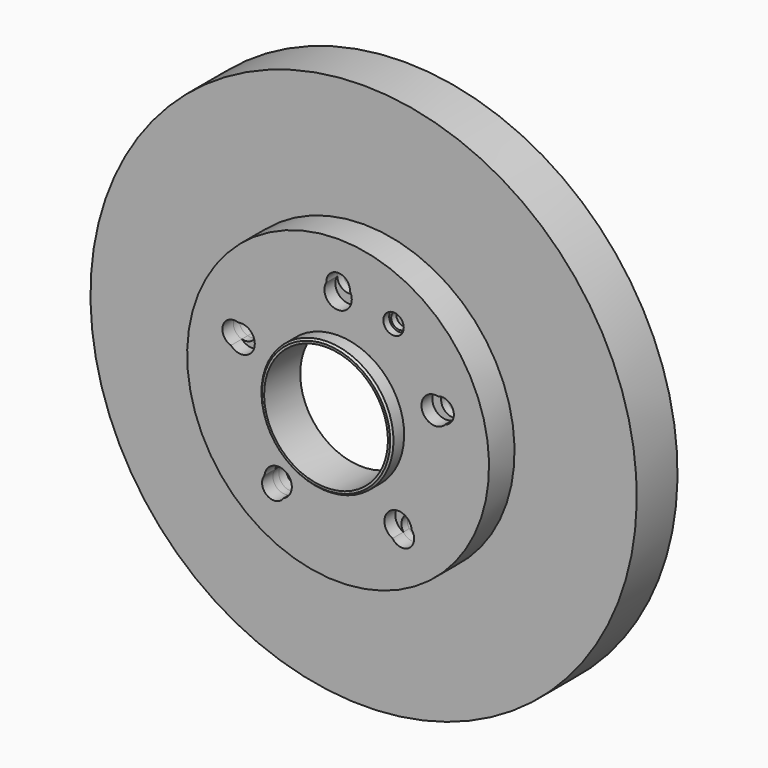
from build123d import *

# Parameters (mm, degrees)
F1_W     = 28
F1_H     = 67.1029478312
F5_DEPTH = 25
F0_R     = 4.5
F6_DEPTH = 25
F7_R     = 5.6
F8_DEPTH = 4


with BuildPart() as f2:
    # F1 (on Right) → F2 (revolve)
    with BuildSketch(Plane.YZ):
        with BuildLine():
            Line((-15.8, 34), (9, 34))
            Line((9, 34), (9, 75))
            Line((9, 75), (4, 75))
            Line((4, 75), (4, 39.5))
            Line((4, 39.5), (4, 39.485))
            Line((4, 39.485), (-2.7, 39.485))
            Line((-2.7, 39.485), (-2.7, 37.75))
            ThreePointArc((-2.7, 37.75), (-3.1393398282, 36.6893398282), (-4.2, 36.25))
            Line((-4.2, 36.25), (-14.8, 36.25))
            Line((-14.8, 36.25), (-15.8, 35.25))
            Line((-15.8, 35.25), (-15.8, 34))
        make_face()
    revolve(axis=Axis((0, -36.444887502, 0), (0, -1, 0)))


with BuildPart() as f3:
    # F1 (on Right) → F3 (revolve)
    with BuildSketch(Plane.YZ):
        Polygon((4, 39.5), (4, 75), (0, 75), (0, 42.775), (0, 39.5), align=None)
    revolve(axis=Axis((0, -36.444887502, 0), (0, -1, 0)))


with BuildPart() as f4:
    # F1 (on Right) → F4 (revolve)
    with BuildSketch(Plane.YZ):
        with BuildLine():
            Line((0, 42.775), (0, 75))
            Line((0, 75), (0, 76.5613988042))
            Line((0, 76.5613988042), (38, 76.5613988042))
            Line((38, 76.5613988042), (38, 82.8970521688))
            Line((38, 82.8970521688), (10, 82.8970521688))
            Line((10, 82.8970521688), (-7.5, 82.8970521688))
            Line((-7.5, 82.8970521688), (-7.5, 36.275))
            Line((-7.5, 36.275), (-4.5, 36.275))
            Line((-4.5, 36.275), (-4.5, 38.5))
            ThreePointArc((-4.5, 38.5), (-4.2071067812, 39.2071067812), (-3.5, 39.5))
            Line((-3.5, 39.5), (0, 39.5))
            Line((0, 39.5), (0, 42.775))
        make_face()
        with Locations((24, 116.4485260844)):
            Rectangle(F1_W, F1_H)
    revolve(axis=Axis((0, -36.444887502, 0), (0, -1, 0)))

    # F0 (on Front) → F6 (cut)
    with BuildSketch(Plane.XZ):
        with BuildLine():
            ThreePointArc((-6.4951905284, 59.75), (-1.9411428383, 48.7555563028), (7.5, 56))
            ThreePointArc((7.5, 56), (7.2444436972, 57.9411428383), (6.4951905284, 59.75))
            ThreePointArc((6.4951905284, 59.75), (0, 53.5), (-6.4951905284, 59.75))
        make_face()
        with BuildLine():
            ThreePointArc((-6.4951905284, 59.75), (0, 53.5), (6.4951905284, 59.75))
            ThreePointArc((6.4951905284, 59.75), (0, 63.5), (-6.4951905284, 59.75))
        make_face()
        with BuildLine():
            ThreePointArc((-6.4951905284, 59.75), (0, 63.5), (6.4951905284, 59.75))
            ThreePointArc((6.4951905284, 59.75), (6.4987975209, 59.8749768711), (6.5, 60))
            ThreePointArc((6.5, 60), (-0.1250231289, 66.4987975209), (-6.4951905284, 59.75))
        make_face()
        with BuildLine():
            ThreePointArc((-58.8327511036, 12.2864721373), (-50.5714052909, 10.3030984863), (-45.7591649125, 17.304951685))
            ThreePointArc((-45.7591649125, 17.304951685), (-48.5392619797, 23.1335463959), (-54.8185025937, 24.6410586905))
            ThreePointArc((-54.8185025937, 24.6410586905), (-51.732266589, 22.2597711669), (-50.5633909777, 18.5410196625))
            ThreePointArc((-50.5633909777, 18.5410196625), (-53.1423478014, 13.3568687765), (-58.8327511036, 12.2864721373))
        make_face()
        with BuildLine():
            ThreePointArc((-50.5633909777, 18.5410196625), (-51.732266589, 22.2597711669), (-54.8185025937, 24.6410586905))
            ThreePointArc((-54.8185025937, 24.6410586905), (-60.3920887847, 19.6225791428), (-58.8327511036, 12.2864721373))
            ThreePointArc((-58.8327511036, 12.2864721373), (-53.1423478014, 13.3568687765), (-50.5633909777, 18.5410196625))
        make_face()
        with BuildLine():
            ThreePointArc((-58.8327511036, 12.2864721373), (-60.3920887847, 19.6225791428), (-54.8185025937, 24.6410586905))
            ThreePointArc((-54.8185025937, 24.6410586905), (-63.2452583336, 20.5496301259), (-58.8327511036, 12.2864721373))
        make_face()
        with BuildLine():
            ThreePointArc((-29.8654493053, -52.1565426173), (-26.6259448688, -49.3897444476), (-25.4159741284, -45.304951685))
            ThreePointArc((-25.4159741284, -45.304951685), (-32.5234544566, -37.8152301743), (-40.3748883436, -44.5209882105))
            ThreePointArc((-40.3748883436, -44.5209882105), (-33.1399721992, -42.3989302037), (-28.7671151375, -48.5410196625))
            ThreePointArc((-28.7671151375, -48.5410196625), (-29.0477571357, -50.430354478), (-29.8654493053, -52.1565426173))
        make_face()
        with BuildLine():
            ThreePointArc((-28.7671151375, -48.5410196625), (-33.1399721992, -42.3989302037), (-40.3748883436, -44.5209882105))
            ThreePointArc((-40.3748883436, -44.5209882105), (-37.3243635206, -51.3725791428), (-29.8654493053, -52.1565426173))
            ThreePointArc((-29.8654493053, -52.1565426173), (-29.0477571357, -50.430354478), (-28.7671151375, -48.5410196625))
        make_face()
        with BuildLine():
            ThreePointArc((-29.8654493053, -52.1565426173), (-37.3243635206, -51.3725791428), (-40.3748883436, -44.5209882105))
            ThreePointArc((-40.3748883436, -44.5209882105), (-39.0877192774, -53.7996301259), (-29.8654493053, -52.1565426173))
        make_face()
        with BuildLine():
            ThreePointArc((29.8654493053, -52.1565426173), (37.000766891, -51.5949809446), (40.4159741284, -45.304951685))
            ThreePointArc((40.4159741284, -45.304951685), (40.405695639, -44.9124320132), (40.3748883436, -44.5209882105))
            ThreePointArc((40.3748883436, -44.5209882105), (31.4465109976, -43.2824091991), (29.8654493053, -52.1565426173))
        make_face()
        with BuildLine():
            ThreePointArc((40.3748883436, -44.5209882105), (40.405695639, -44.9124320132), (40.4159741284, -45.304951685))
            ThreePointArc((40.4159741284, -45.304951685), (37.000766891, -51.5949809446), (29.8654493053, -52.1565426173))
            ThreePointArc((29.8654493053, -52.1565426173), (37.1564499531, -54.7603776643), (41.7671151375, -48.5410196625))
            ThreePointArc((41.7671151375, -48.5410196625), (41.4092045963, -46.4138767241), (40.3748883436, -44.5209882105))
        make_face()
        with BuildLine():
            ThreePointArc((29.8654493053, -52.1565426173), (31.4465109976, -43.2824091991), (40.3748883436, -44.5209882105))
            ThreePointArc((40.3748883436, -44.5209882105), (28.5075847362, -39.2373242272), (29.8654493053, -52.1565426173))
        make_face()
        with BuildLine():
            ThreePointArc((58.8327511036, 12.2864721373), (60.2610181113, 14.6171920634), (60.7591649125, 17.304951685))
            ThreePointArc((60.7591649125, 17.304951685), (59.0877596235, 22.0248546179), (54.8185025937, 24.6410586905))
            ThreePointArc((54.8185025937, 24.6410586905), (50.8815236218, 16.5324091991), (58.8327511036, 12.2864721373))
        make_face()
        with BuildLine():
            ThreePointArc((54.8185025937, 24.6410586905), (59.0877596235, 22.0248546179), (60.7591649125, 17.304951685))
            ThreePointArc((60.7591649125, 17.304951685), (60.2610181113, 14.6171920634), (58.8327511036, 12.2864721373))
            ThreePointArc((58.8327511036, 12.2864721373), (62.2475418637, 14.6199764861), (63.5633909777, 18.5410196625))
            ThreePointArc((63.5633909777, 18.5410196625), (60.7821424822, 23.8721440512), (54.8185025937, 24.6410586905))
        make_face()
        with BuildLine():
            ThreePointArc((58.8327511036, 12.2864721373), (50.8815236218, 16.5324091991), (54.8185025937, 24.6410586905))
            ThreePointArc((54.8185025937, 24.6410586905), (46.1262410403, 14.9873242272), (58.8327511036, 12.2864721373))
        make_face()
        with Locations((30.4523017776, 51.6977496265)):
            Circle(F0_R)
    extrude(amount=F6_DEPTH, mode=Mode.SUBTRACT)

    # F7 (on face) → F8 (cut)
    with BuildSketch(Plane.XZ.offset(7.5)):
        with Locations((30.4523017776, 51.6977496265)):
            Circle(F7_R)
    extrude(amount=-F8_DEPTH, mode=Mode.SUBTRACT)


with BuildPart() as f5_tool:
    # F0 (on Front) → F5 (new body)
    with BuildSketch(Plane.XZ):
        with BuildLine():
            ThreePointArc((54.8185025937, 24.6410586905), (59.0877596235, 22.0248546179), (60.7591649125, 17.304951685))
            ThreePointArc((60.7591649125, 17.304951685), (60.2610181113, 14.6171920634), (58.8327511036, 12.2864721373))
            ThreePointArc((58.8327511036, 12.2864721373), (62.2475418637, 14.6199764861), (63.5633909777, 18.5410196625))
            ThreePointArc((63.5633909777, 18.5410196625), (60.7821424822, 23.8721440512), (54.8185025937, 24.6410586905))
        make_face()
        with BuildLine():
            ThreePointArc((58.8327511036, 12.2864721373), (60.2610181113, 14.6171920634), (60.7591649125, 17.304951685))
            ThreePointArc((60.7591649125, 17.304951685), (59.0877596235, 22.0248546179), (54.8185025937, 24.6410586905))
            ThreePointArc((54.8185025937, 24.6410586905), (50.8815236218, 16.5324091991), (58.8327511036, 12.2864721373))
        make_face()
        with BuildLine():
            ThreePointArc((-6.4951905284, 59.75), (0, 63.5), (6.4951905284, 59.75))
            ThreePointArc((6.4951905284, 59.75), (6.4987975209, 59.8749768711), (6.5, 60))
            ThreePointArc((6.5, 60), (-0.1250231289, 66.4987975209), (-6.4951905284, 59.75))
        make_face()
        with BuildLine():
            ThreePointArc((-6.4951905284, 59.75), (0, 53.5), (6.4951905284, 59.75))
            ThreePointArc((6.4951905284, 59.75), (0, 63.5), (-6.4951905284, 59.75))
        make_face()
        with BuildLine():
            ThreePointArc((-58.8327511036, 12.2864721373), (-60.3920887847, 19.6225791428), (-54.8185025937, 24.6410586905))
            ThreePointArc((-54.8185025937, 24.6410586905), (-63.2452583336, 20.5496301259), (-58.8327511036, 12.2864721373))
        make_face()
        with BuildLine():
            ThreePointArc((-50.5633909777, 18.5410196625), (-51.732266589, 22.2597711669), (-54.8185025937, 24.6410586905))
            ThreePointArc((-54.8185025937, 24.6410586905), (-60.3920887847, 19.6225791428), (-58.8327511036, 12.2864721373))
            ThreePointArc((-58.8327511036, 12.2864721373), (-53.1423478014, 13.3568687765), (-50.5633909777, 18.5410196625))
        make_face()
        with BuildLine():
            ThreePointArc((-29.8654493053, -52.1565426173), (-37.3243635206, -51.3725791428), (-40.3748883436, -44.5209882105))
            ThreePointArc((-40.3748883436, -44.5209882105), (-39.0877192774, -53.7996301259), (-29.8654493053, -52.1565426173))
        make_face()
        with BuildLine():
            ThreePointArc((-28.7671151375, -48.5410196625), (-33.1399721992, -42.3989302037), (-40.3748883436, -44.5209882105))
            ThreePointArc((-40.3748883436, -44.5209882105), (-37.3243635206, -51.3725791428), (-29.8654493053, -52.1565426173))
            ThreePointArc((-29.8654493053, -52.1565426173), (-29.0477571357, -50.430354478), (-28.7671151375, -48.5410196625))
        make_face()
        with BuildLine():
            ThreePointArc((40.3748883436, -44.5209882105), (40.405695639, -44.9124320132), (40.4159741284, -45.304951685))
            ThreePointArc((40.4159741284, -45.304951685), (37.000766891, -51.5949809446), (29.8654493053, -52.1565426173))
            ThreePointArc((29.8654493053, -52.1565426173), (37.1564499531, -54.7603776643), (41.7671151375, -48.5410196625))
            ThreePointArc((41.7671151375, -48.5410196625), (41.4092045963, -46.4138767241), (40.3748883436, -44.5209882105))
        make_face()
        with BuildLine():
            ThreePointArc((29.8654493053, -52.1565426173), (37.000766891, -51.5949809446), (40.4159741284, -45.304951685))
            ThreePointArc((40.4159741284, -45.304951685), (40.405695639, -44.9124320132), (40.3748883436, -44.5209882105))
            ThreePointArc((40.3748883436, -44.5209882105), (31.4465109976, -43.2824091991), (29.8654493053, -52.1565426173))
        make_face()
    extrude(amount=-F5_DEPTH)


with BuildPart() as f2_1:
    add(f2.part)

    # F5: cut by f5_tool
    add(f5_tool.part, mode=Mode.SUBTRACT)


with BuildPart() as f3_1:
    add(f3.part)

    # F5: cut by f5_tool
    add(f5_tool.part, mode=Mode.SUBTRACT)


solid = Compound([f4.part, f2_1.part, f3_1.part])
